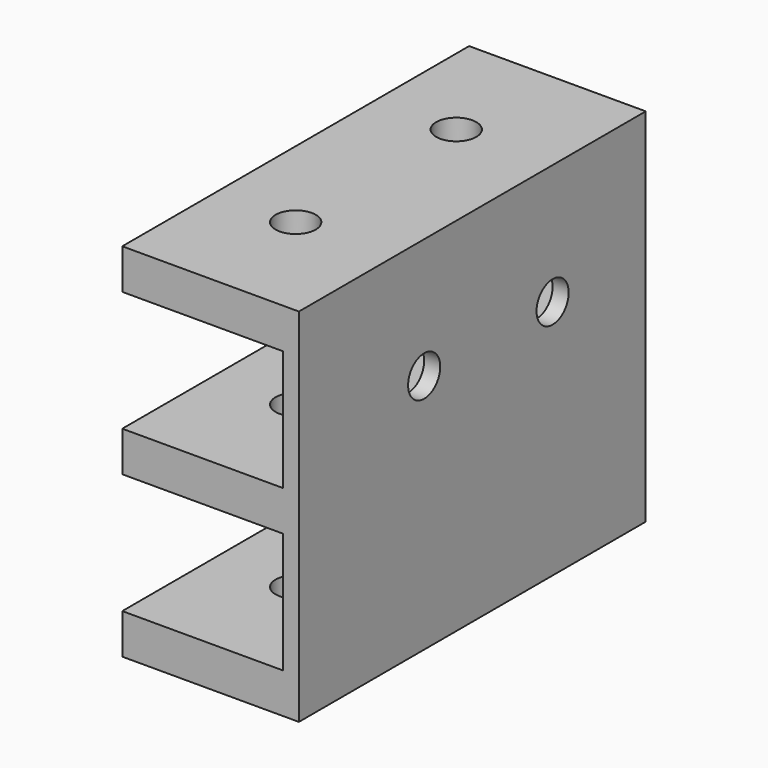
from build123d import *

# Parameters (mm, degrees)
F0_W     = 20
F0_H     = 25
F0_R     = 6.5
F0_R_2   = 2.5
F0_H_2   = 2
F1_DEPTH = 5
F2_DEPTH = 45
F3_START = 20
F3_DEPTH = 5
F4_START = 40
F4_DEPTH = 5
F6_D     = 5
F6_DEPTH = 12.7
F6_TIP   = 1.5021515476


with BuildPart() as f1:
    # F0 (on Top) → F1 (new body)
    with BuildSketch(Plane.XY):
        Rectangle(F0_W, F0_H)
        Circle(F0_R, mode=Mode.SUBTRACT)
        Circle(F0_R)
        Circle(F0_R_2, mode=Mode.SUBTRACT)
        with Locations((0, 13.5)):
            Rectangle(F0_W, F0_H_2)
        with Locations((0, -25)):
            Rectangle(F0_W, F0_H)
        with Locations((0, -25)):
            Circle(F0_R, mode=Mode.SUBTRACT)
        with Locations((0, -25)):
            Circle(F0_R)
        with Locations((0, -25)):
            Circle(F0_R_2, mode=Mode.SUBTRACT)
        Polygon((12, -12.5), (10, -12.5), (10, -37.5), (10, -39.5), (12, -39.5), align=None)
        with Locations((0, -38.5)):
            Rectangle(F0_W, F0_H_2)
        Polygon((10, 14.5), (10, 12.5), (10, -12.5), (12, -12.5), (12, 14.5), align=None)
    extrude(amount=F1_DEPTH)

    # F0 (on Top) → F2 (join)
    with BuildSketch(Plane.XY):
        Polygon((12, -12.5), (10, -12.5), (10, -37.5), (10, -39.5), (12, -39.5), align=None)
        Polygon((10, 14.5), (10, 12.5), (10, -12.5), (12, -12.5), (12, 14.5), align=None)
    extrude(amount=F2_DEPTH)

    # F0 (on Top) → F3 (join)
    with BuildSketch(Plane.XY.offset(F3_START)):
        Rectangle(F0_W, F0_H)
        Circle(F0_R, mode=Mode.SUBTRACT)
        Circle(F0_R)
        Circle(F0_R_2, mode=Mode.SUBTRACT)
        with Locations((0, 13.5)):
            Rectangle(F0_W, F0_H_2)
        Polygon((12, -12.5), (10, -12.5), (10, -37.5), (10, -39.5), (12, -39.5), align=None)
        with Locations((0, -25)):
            Rectangle(F0_W, F0_H)
        with Locations((0, -25)):
            Circle(F0_R, mode=Mode.SUBTRACT)
        with Locations((0, -25)):
            Circle(F0_R)
        with Locations((0, -25)):
            Circle(F0_R_2, mode=Mode.SUBTRACT)
        with Locations((0, -38.5)):
            Rectangle(F0_W, F0_H_2)
        Polygon((10, 14.5), (10, 12.5), (10, -12.5), (12, -12.5), (12, 14.5), align=None)
    extrude(amount=F3_DEPTH)

    # F0 (on Top) → F4 (join)
    with BuildSketch(Plane.XY.offset(F4_START)):
        with Locations((0, 13.5)):
            Rectangle(F0_W, F0_H_2)
        Rectangle(F0_W, F0_H)
        Circle(F0_R, mode=Mode.SUBTRACT)
        Circle(F0_R)
        Circle(F0_R_2, mode=Mode.SUBTRACT)
        with Locations((0, -25)):
            Rectangle(F0_W, F0_H)
        with Locations((0, -25)):
            Circle(F0_R, mode=Mode.SUBTRACT)
        with Locations((0, -25)):
            Circle(F0_R)
        with Locations((0, -25)):
            Circle(F0_R_2, mode=Mode.SUBTRACT)
        Polygon((12, -12.5), (10, -12.5), (10, -37.5), (10, -39.5), (12, -39.5), align=None)
        with Locations((0, -38.5)):
            Rectangle(F0_W, F0_H_2)
        Polygon((10, 14.5), (10, 12.5), (10, -12.5), (12, -12.5), (12, 14.5), align=None)
    extrude(amount=F4_DEPTH)

    # F6
    with Locations(Plane(origin=(10, 0, 0), x_dir=(0, -1, 0), z_dir=(-1, 0, 0))):
        with Locations((0, 30), (20, 30)):
            Hole(F6_D / 2, depth=F6_DEPTH)
            with Locations((0, 0, -(F6_DEPTH + F6_TIP / 2))):  # 118° drill point
                Cone(0, F6_D / 2, F6_TIP, mode=Mode.SUBTRACT)


solid = f1.part
